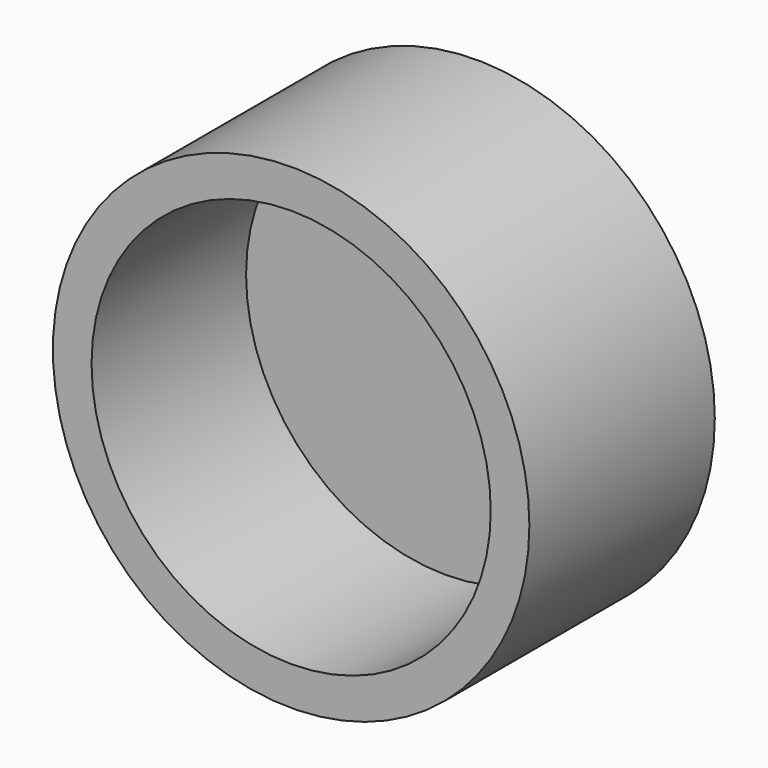
from build123d import *

# Parameters (mm, degrees)
F0_R     = 18.5
F1_DEPTH = 18
F2_T     = -3
F3_R     = 2.7
F4_DEPTH = 15
F5_R     = 2


with BuildPart() as f1:
    # F0 (on Front) → F1 (new body)
    with BuildSketch(Plane.XZ):
        Circle(F0_R)
    extrude(amount=F1_DEPTH)

    # F2
    f2_openings = [f1.faces().sort_by_distance(p)[0] for p in [
        (0, -18, 0),
    ]]
    offset(amount=F2_T, openings=f2_openings)

    # F3 (on face) → F4 (join)
    with BuildSketch(Plane(origin=(0, 0, 0), x_dir=(-1, 0, 0), z_dir=(0, 1, 0))):
        Circle(F3_R)
    extrude(amount=F4_DEPTH)

    # F5
    f5_edges = [f1.edges().sort_by_distance(p)[0] for p in [
        (2.7, 15, 0),
    ]]
    fillet(f5_edges, radius=F5_R)


solid = f1.part
